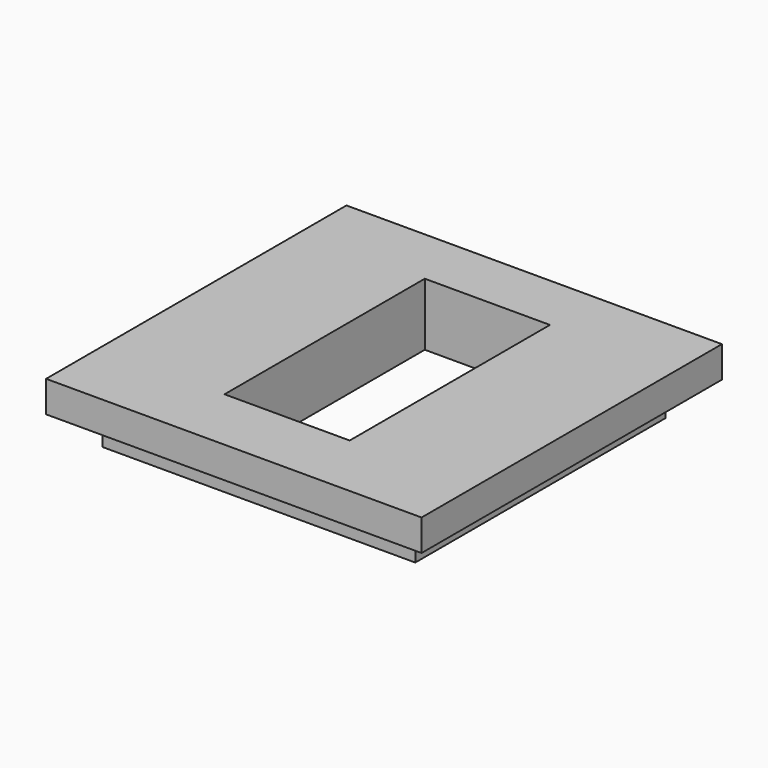
from build123d import *

# Parameters (mm, degrees)
F0_W     = 60
F0_H     = 60
F1_DEPTH = 5
F2_W     = 50
F2_H     = 50
F3_DEPTH = 5
F4_W     = 20
F4_H     = 40
F5_DEPTH = 10


with BuildPart() as f1:
    # F0 (on Top) → F1 (new body)
    with BuildSketch(Plane.XY):
        with Locations((-21.16647, 5.48928)):
            Rectangle(F0_W, F0_H)
    extrude(amount=F1_DEPTH)

    # F2 (on face) → F3 (join)
    with BuildSketch(Plane(origin=(0, 0, 0), x_dir=(1, 0, 0), z_dir=(0, 0, -1))):
        with Locations((-21.16647, -5.48928)):
            Rectangle(F2_W, F2_H)
    extrude(amount=F3_DEPTH)

    # F4 (on face) → F5 (cut)
    with BuildSketch(Plane.XY.offset(5)):
        with Locations((-21.16647, 6.135008)):
            Rectangle(F4_W, F4_H)
    extrude(amount=-F5_DEPTH, mode=Mode.SUBTRACT)


solid = f1.part
